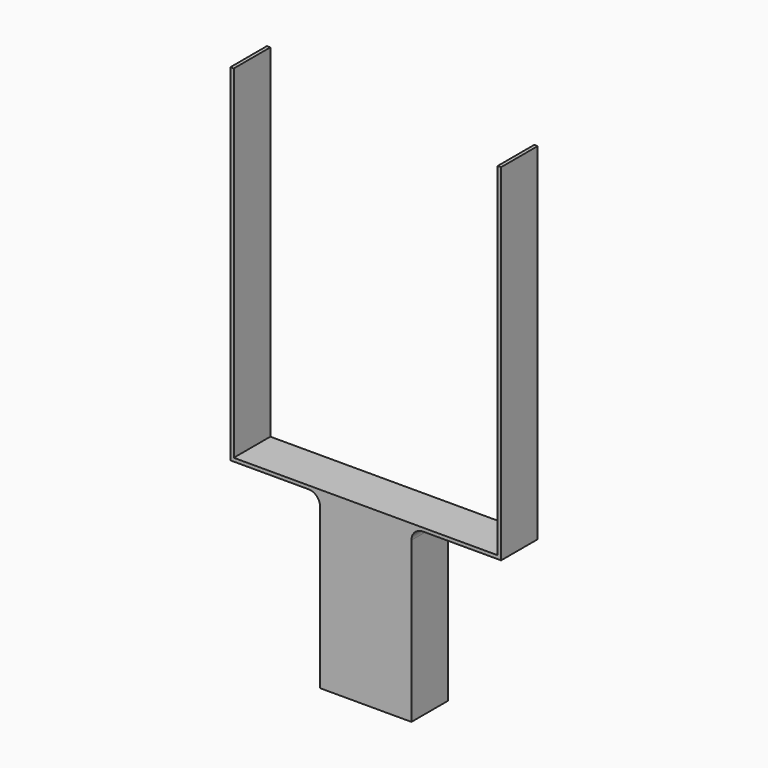
from build123d import *

# Parameters (mm, degrees)
F0_W     = 8
F0_H     = 4
F1_DEPTH = 15
F2_R     = 1.5
F3_DEPTH = 14
F4_W     = 23.7
F4_H     = 4
F5_DEPTH = 0.3
F6_R     = 1
F7_W     = 0.3
F7_H     = 4
F8_DEPTH = 30


with BuildPart() as f1:
    # F0 (on Top) → F1 (new body)
    with BuildSketch(Plane.XY):
        Rectangle(F0_W, F0_H)
    extrude(amount=F1_DEPTH)

    # F2 (on face) → F3 (cut)
    with BuildSketch(Plane(origin=(0, 0, 0), x_dir=(1, 0, 0), z_dir=(0, 0, -1))):
        Circle(F2_R)
    extrude(amount=-F3_DEPTH, mode=Mode.SUBTRACT)

    # F4 (on face) → F5 (join)
    with BuildSketch(Plane.XY.offset(15)):
        Rectangle(F4_W, F4_H)
    extrude(amount=F5_DEPTH)

    # F6
    f6_edges = [f1.edges().sort_by_distance(p)[0] for p in [
        (-4, 0, 15),
        (4, 0, 15),
    ]]
    fillet(f6_edges, radius=F6_R)

    # F7 (on face) → F8 (join)
    with BuildSketch(Plane.XY.offset(15.3)):
        with Locations((-11.7, 0)):
            Rectangle(F7_W, F7_H)
        with Locations((11.7, 0)):
            Rectangle(F7_W, F7_H)
    extrude(amount=F8_DEPTH)


solid = f1.part
